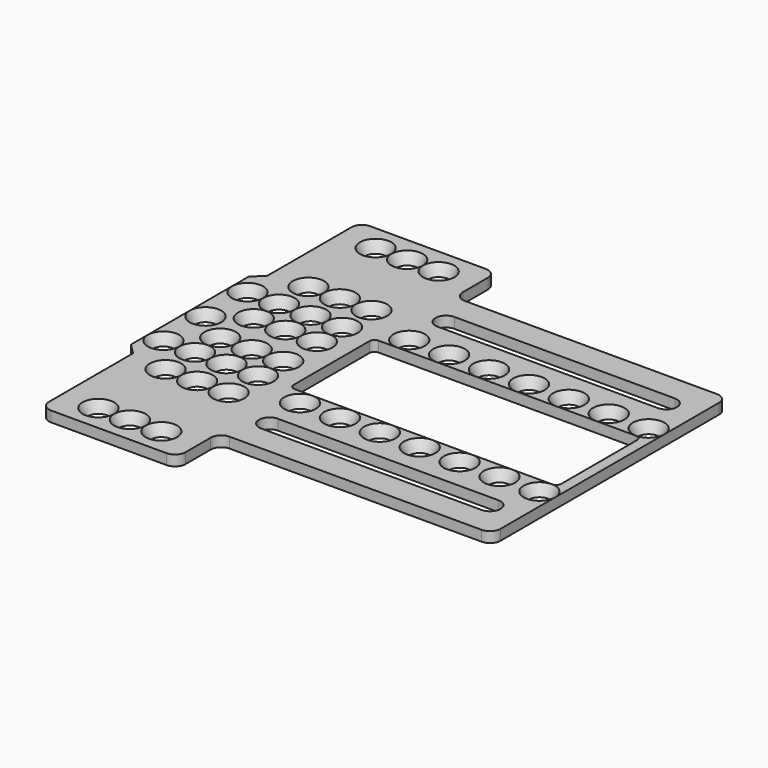
from build123d import *

# Parameters (mm, degrees)
SKETCH055_R             = 1
SKETCH054_R             = 1.5
SKETCH053_R             = 1
SKETCH052_R             = 1.5
SKETCH057_R             = 1
SKETCH056_R             = 1.5
SKETCH013_R             = 1
SKETCH012_R             = 1.5
LOFT005_PLACEMENT_ANGLE = 90
SKETCH003_R             = 1
SKETCH002_R             = 1.5
SKETCH014_R             = 1
SKETCH017_R             = 1.5
SKETCH019_R             = 1
SKETCH018_R             = 1.5
SKETCH016_R             = 1
SKETCH015_R             = 1.5
LOFT006_PLACEMENT_ANGLE = 90
SKETCH046_R             = 1
SKETCH051_R             = 1.5
SKETCH050_R             = 1
SKETCH047_R             = 1.5
SKETCH045_R             = 1
SKETCH044_R             = 1.5
LOFT021_PLACEMENT_ANGLE = 90
SKETCH041_R             = 1
SKETCH040_R             = 1.5
SKETCH037_R             = 1
SKETCH036_R             = 1.5
SKETCH043_R             = 1
SKETCH042_R             = 1.5
LOFT020_PLACEMENT_ANGLE = 90
SKETCH034_R             = 1
SKETCH039_R             = 1.5
SKETCH038_R             = 1
SKETCH035_R             = 1.5
SKETCH033_R             = 1
SKETCH032_R             = 1.5
LOFT015_PLACEMENT_ANGLE = 90
SKETCH029_R             = 1
SKETCH028_R             = 1.5
SKETCH027_R             = 1
SKETCH026_R             = 1.5
SKETCH031_R             = 1
SKETCH030_R             = 1.5
LOFT014_PLACEMENT_ANGLE = 90
SKETCH023_R             = 1
SKETCH022_R             = 1.5
SKETCH025_R             = 1
SKETCH024_R             = 1.5
SKETCH021_R             = 1
SKETCH020_R             = 1.5
LOFT009_PLACEMENT_ANGLE = 90
SKETCH011_R             = 1
SKETCH008_R             = 1.5
SKETCH005_R             = 1
SKETCH004_R             = 1.5
SKETCH007_R             = 1
SKETCH006_R             = 1.5
LOFT002_PLACEMENT_ANGLE = 90
SKETCH010_R             = 1
SKETCH009_R             = 1.5
SKETCH064_R             = 1
SKETCH063_R             = 1.5
LOFT028_PLACEMENT_ANGLE = 90
SKETCH066_R             = 1
SKETCH065_R             = 1.5
LOFT029_PLACEMENT_ANGLE = 90
SKETCH068_R             = 1
SKETCH067_R             = 1.5
LOFT030_PLACEMENT_ANGLE = 90
SKETCH070_R             = 1
SKETCH075_R             = 1.5
LOFT031_PLACEMENT_ANGLE = 90
SKETCH072_R             = 1
SKETCH071_R             = 1.5
LOFT032_PLACEMENT_ANGLE = 90
SKETCH073_R             = 1
SKETCH069_R             = 1.5
LOFT034_PLACEMENT_ANGLE = 90
SKETCH062_R             = 1
SKETCH061_R             = 1.5
LOFT027_PLACEMENT_ANGLE = 90
SKETCH081_R             = 1
SKETCH089_R             = 1.5
LOFT037_PLACEMENT_ANGLE = 90
SKETCH085_R             = 1
SKETCH084_R             = 1.5
LOFT038_PLACEMENT_ANGLE = 90
SKETCH080_R             = 1
SKETCH079_R             = 1.5
LOFT039_PLACEMENT_ANGLE = 90
SKETCH086_R             = 1
SKETCH082_R             = 1.5
LOFT040_PLACEMENT_ANGLE = 90
SKETCH088_R             = 1
SKETCH087_R             = 1.5
LOFT041_PLACEMENT_ANGLE = 90
SKETCH077_R             = 1
SKETCH076_R             = 1.5
LOFT035_PLACEMENT_ANGLE = 90
SKETCH083_R             = 1
SKETCH078_R             = 1.5
LOFT036_PLACEMENT_ANGLE = 90
EXTRUDE_DEPTH           = 1
EXTRUDE002_DEPTH        = 1
EXTRUDE004_DEPTH        = 1
EXTRUDE003_DEPTH        = 1


with BuildPart() as loft065:
    # Sketch055 → Loft025 section 0
    with BuildSketch(Plane.XY):
        with Locations((2, 2)):
            Circle(SKETCH055_R)
    # Sketch054 → Loft025 section 1
    with BuildSketch(Plane.XY.offset(1)):
        with Locations((2, 2)):
            Circle(SKETCH054_R)
    loft()


with BuildPart() as loft065_1:
    # Loft025 placement: moved
    add(loft065.part.moved(Location((-1.5, 22, 0))))


with BuildPart() as loft064:
    # Sketch053 → Loft024 section 0
    with BuildSketch(Plane.XY):
        with Locations((2, 2)):
            Circle(SKETCH053_R)
    # Sketch052 → Loft024 section 1
    with BuildSketch(Plane.XY.offset(1)):
        with Locations((2, 2)):
            Circle(SKETCH052_R)
    loft()


with BuildPart() as loft064_1:
    # Loft024 placement: moved
    add(loft064.part.moved(Location((-1.5, 12, 0))))


with BuildPart() as fusion004:
    # Sketch057 → Loft026 section 0
    with BuildSketch(Plane.XY):
        with Locations((2, 2)):
            Circle(SKETCH057_R)
    # Sketch056 → Loft026 section 1
    with BuildSketch(Plane.XY.offset(1)):
        with Locations((2, 2)):
            Circle(SKETCH056_R)
    loft()


with BuildPart() as fusion004_1:
    # Loft026 placement: moved
    add(fusion004.part.moved(Location((-1.5, 17, 0))))

    # Fusion004: union Loft065, Loft064
    add(loft065_1.part)
    add(loft064_1.part)


with BuildPart() as loft046:
    # Sketch013 → Loft005 section 0
    with BuildSketch(Plane.XY):
        with Locations((2, 2)):
            Circle(SKETCH013_R)
    # Sketch012 → Loft005 section 1
    with BuildSketch(Plane.XY.offset(1)):
        with Locations((2, 2)):
            Circle(SKETCH012_R)
    loft()


with BuildPart() as loft046_1:
    # Loft005 placement: moved
    add(loft046.part.moved(Location((11.502, 33.5, 0))).rotate(Axis((11.502, 33.5, 0), (0, 0, 1)), LOFT005_PLACEMENT_ANGLE))


with BuildPart() as loft001:
    # Sketch003 → Loft section 0
    with BuildSketch(Plane.XY):
        with Locations((2, 2)):
            Circle(SKETCH003_R)
    # Sketch002 → Loft section 1
    with BuildSketch(Plane.XY.offset(1)):
        with Locations((2, 2)):
            Circle(SKETCH002_R)
    loft()


with BuildPart() as loft001_1:
    # Loft placement: moved
    add(loft001.part.moved(Location((1.5, 33.5, 0))))


with BuildPart() as loft048:
    # Sketch014 → Loft007 section 0
    with BuildSketch(Plane.XY):
        with Locations((2, 2)):
            Circle(SKETCH014_R)
    # Sketch017 → Loft007 section 1
    with BuildSketch(Plane.XY.offset(1)):
        with Locations((2, 2)):
            Circle(SKETCH017_R)
    loft()


with BuildPart() as loft048_1:
    # Loft007 placement: moved
    add(loft048.part.moved(Location((1.5, 25.5, 0))))


with BuildPart() as loft049:
    # Sketch019 → Loft008 section 0
    with BuildSketch(Plane.XY):
        with Locations((2, 2)):
            Circle(SKETCH019_R)
    # Sketch018 → Loft008 section 1
    with BuildSketch(Plane.XY.offset(1)):
        with Locations((2, 2)):
            Circle(SKETCH018_R)
    loft()


with BuildPart() as loft049_1:
    # Loft008 placement: moved
    add(loft049.part.moved(Location((4.501, 25.5, 0))))


with BuildPart() as loft047:
    # Sketch016 → Loft006 section 0
    with BuildSketch(Plane.XY):
        with Locations((2, 2)):
            Circle(SKETCH016_R)
    # Sketch015 → Loft006 section 1
    with BuildSketch(Plane.XY.offset(1)):
        with Locations((2, 2)):
            Circle(SKETCH015_R)
    loft()


with BuildPart() as loft047_1:
    # Loft006 placement: moved
    add(loft047.part.moved(Location((11.502, 25.5, 0))).rotate(Axis((11.502, 25.5, 0), (0, 0, 1)), LOFT006_PLACEMENT_ANGLE))


with BuildPart() as loft063:
    # Sketch046 → Loft023 section 0
    with BuildSketch(Plane.XY):
        with Locations((2, 2)):
            Circle(SKETCH046_R)
    # Sketch051 → Loft023 section 1
    with BuildSketch(Plane.XY.offset(1)):
        with Locations((2, 2)):
            Circle(SKETCH051_R)
    loft()


with BuildPart() as loft063_1:
    # Loft023 placement: moved
    add(loft063.part.moved(Location((1.5, 22, 0))))


with BuildPart() as loft062:
    # Sketch050 → Loft022 section 0
    with BuildSketch(Plane.XY):
        with Locations((2, 2)):
            Circle(SKETCH050_R)
    # Sketch047 → Loft022 section 1
    with BuildSketch(Plane.XY.offset(1)):
        with Locations((2, 2)):
            Circle(SKETCH047_R)
    loft()


with BuildPart() as loft062_1:
    # Loft022 placement: moved
    add(loft062.part.moved(Location((4.501, 22, 0))))


with BuildPart() as loft033:
    # Sketch045 → Loft021 section 0
    with BuildSketch(Plane.XY):
        with Locations((2, 2)):
            Circle(SKETCH045_R)
    # Sketch044 → Loft021 section 1
    with BuildSketch(Plane.XY.offset(1)):
        with Locations((2, 2)):
            Circle(SKETCH044_R)
    loft()


with BuildPart() as loft033_1:
    # Loft021 placement: moved
    add(loft033.part.moved(Location((11.503, 22, 0))).rotate(Axis((11.503, 22, 0), (0, 0, 1)), LOFT021_PLACEMENT_ANGLE))


with BuildPart() as loft060:
    # Sketch041 → Loft019 section 0
    with BuildSketch(Plane.XY):
        with Locations((2, 2)):
            Circle(SKETCH041_R)
    # Sketch040 → Loft019 section 1
    with BuildSketch(Plane.XY.offset(1)):
        with Locations((2, 2)):
            Circle(SKETCH040_R)
    loft()


with BuildPart() as loft060_1:
    # Loft019 placement: moved
    add(loft060.part.moved(Location((1.5, 18.999, 0))))


with BuildPart() as loft059:
    # Sketch037 → Loft018 section 0
    with BuildSketch(Plane.XY):
        with Locations((2, 2)):
            Circle(SKETCH037_R)
    # Sketch036 → Loft018 section 1
    with BuildSketch(Plane.XY.offset(1)):
        with Locations((2, 2)):
            Circle(SKETCH036_R)
    loft()


with BuildPart() as loft059_1:
    # Loft018 placement: moved
    add(loft059.part.moved(Location((4.501, 18.999, 0))))


with BuildPart() as loft061:
    # Sketch043 → Loft020 section 0
    with BuildSketch(Plane.XY):
        with Locations((2, 2)):
            Circle(SKETCH043_R)
    # Sketch042 → Loft020 section 1
    with BuildSketch(Plane.XY.offset(1)):
        with Locations((2, 2)):
            Circle(SKETCH042_R)
    loft()


with BuildPart() as loft061_1:
    # Loft020 placement: moved
    add(loft061.part.moved(Location((11.502, 18.999, 0))).rotate(Axis((11.502, 18.999, 0), (0, 0, 1)), LOFT020_PLACEMENT_ANGLE))


with BuildPart() as loft058:
    # Sketch034 → Loft017 section 0
    with BuildSketch(Plane.XY):
        with Locations((2, 2)):
            Circle(SKETCH034_R)
    # Sketch039 → Loft017 section 1
    with BuildSketch(Plane.XY.offset(1)):
        with Locations((2, 2)):
            Circle(SKETCH039_R)
    loft()


with BuildPart() as loft058_1:
    # Loft017 placement: moved
    add(loft058.part.moved(Location((1.5, 15.001, 0))))


with BuildPart() as loft057:
    # Sketch038 → Loft016 section 0
    with BuildSketch(Plane.XY):
        with Locations((2, 2)):
            Circle(SKETCH038_R)
    # Sketch035 → Loft016 section 1
    with BuildSketch(Plane.XY.offset(1)):
        with Locations((2, 2)):
            Circle(SKETCH035_R)
    loft()


with BuildPart() as loft057_1:
    # Loft016 placement: moved
    add(loft057.part.moved(Location((4.501, 15.001, 0))))


with BuildPart() as loft056:
    # Sketch033 → Loft015 section 0
    with BuildSketch(Plane.XY):
        with Locations((2, 2)):
            Circle(SKETCH033_R)
    # Sketch032 → Loft015 section 1
    with BuildSketch(Plane.XY.offset(1)):
        with Locations((2, 2)):
            Circle(SKETCH032_R)
    loft()


with BuildPart() as loft056_1:
    # Loft015 placement: moved
    add(loft056.part.moved(Location((11.502, 15.001, 0))).rotate(Axis((11.502, 15.001, 0), (0, 0, 1)), LOFT015_PLACEMENT_ANGLE))


with BuildPart() as loft054:
    # Sketch029 → Loft013 section 0
    with BuildSketch(Plane.XY):
        with Locations((2, 2)):
            Circle(SKETCH029_R)
    # Sketch028 → Loft013 section 1
    with BuildSketch(Plane.XY.offset(1)):
        with Locations((2, 2)):
            Circle(SKETCH028_R)
    loft()


with BuildPart() as loft054_1:
    # Loft013 placement: moved
    add(loft054.part.moved(Location((1.5, 12, 0))))


with BuildPart() as loft053:
    # Sketch027 → Loft012 section 0
    with BuildSketch(Plane.XY):
        with Locations((2, 2)):
            Circle(SKETCH027_R)
    # Sketch026 → Loft012 section 1
    with BuildSketch(Plane.XY.offset(1)):
        with Locations((2, 2)):
            Circle(SKETCH026_R)
    loft()


with BuildPart() as loft053_1:
    # Loft012 placement: moved
    add(loft053.part.moved(Location((4.501, 12, 0))))


with BuildPart() as loft055:
    # Sketch031 → Loft014 section 0
    with BuildSketch(Plane.XY):
        with Locations((2, 2)):
            Circle(SKETCH031_R)
    # Sketch030 → Loft014 section 1
    with BuildSketch(Plane.XY.offset(1)):
        with Locations((2, 2)):
            Circle(SKETCH030_R)
    loft()


with BuildPart() as loft055_1:
    # Loft014 placement: moved
    add(loft055.part.moved(Location((11.502, 12, 0))).rotate(Axis((11.502, 12, 0), (0, 0, 1)), LOFT014_PLACEMENT_ANGLE))


with BuildPart() as loft051:
    # Sketch023 → Loft010 section 0
    with BuildSketch(Plane.XY):
        with Locations((2, 2)):
            Circle(SKETCH023_R)
    # Sketch022 → Loft010 section 1
    with BuildSketch(Plane.XY.offset(1)):
        with Locations((2, 2)):
            Circle(SKETCH022_R)
    loft()


with BuildPart() as loft051_1:
    # Loft010 placement: moved
    add(loft051.part.moved(Location((1.5, 8.5, 0))))


with BuildPart() as loft052:
    # Sketch025 → Loft011 section 0
    with BuildSketch(Plane.XY):
        with Locations((2, 2)):
            Circle(SKETCH025_R)
    # Sketch024 → Loft011 section 1
    with BuildSketch(Plane.XY.offset(1)):
        with Locations((2, 2)):
            Circle(SKETCH024_R)
    loft()


with BuildPart() as loft052_1:
    # Loft011 placement: moved
    add(loft052.part.moved(Location((4.501, 8.5, 0))))


with BuildPart() as loft050:
    # Sketch021 → Loft009 section 0
    with BuildSketch(Plane.XY):
        with Locations((2, 2)):
            Circle(SKETCH021_R)
    # Sketch020 → Loft009 section 1
    with BuildSketch(Plane.XY.offset(1)):
        with Locations((2, 2)):
            Circle(SKETCH020_R)
    loft()


with BuildPart() as loft050_1:
    # Loft009 placement: moved
    add(loft050.part.moved(Location((11.502, 8.5, 0))).rotate(Axis((11.502, 8.5, 0), (0, 0, 1)), LOFT009_PLACEMENT_ANGLE))


with BuildPart() as loft044:
    # Sketch011 → Loft003 section 0
    with BuildSketch(Plane.XY):
        with Locations((2, 2)):
            Circle(SKETCH011_R)
    # Sketch008 → Loft003 section 1
    with BuildSketch(Plane.XY.offset(1)):
        with Locations((2, 2)):
            Circle(SKETCH008_R)
    loft()


with BuildPart() as loft044_1:
    # Loft003 placement: moved
    add(loft044.part.moved(Location((1.5, 0.5, 0))))


with BuildPart() as loft042:
    # Sketch005 → Loft001 section 0
    with BuildSketch(Plane.XY):
        with Locations((2, 2)):
            Circle(SKETCH005_R)
    # Sketch004 → Loft001 section 1
    with BuildSketch(Plane.XY.offset(1)):
        with Locations((2, 2)):
            Circle(SKETCH004_R)
    loft()


with BuildPart() as loft042_1:
    # Loft001 placement: moved
    add(loft042.part.moved(Location((4.501, 0.5, 0))))


with BuildPart() as loft043:
    # Sketch007 → Loft002 section 0
    with BuildSketch(Plane.XY):
        with Locations((2, 2)):
            Circle(SKETCH007_R)
    # Sketch006 → Loft002 section 1
    with BuildSketch(Plane.XY.offset(1)):
        with Locations((2, 2)):
            Circle(SKETCH006_R)
    loft()


with BuildPart() as loft043_1:
    # Loft002 placement: moved
    add(loft043.part.moved(Location((11.502, 0.5, 0))).rotate(Axis((11.502, 0.5, 0), (0, 0, 1)), LOFT002_PLACEMENT_ANGLE))


with BuildPart() as fusion005:
    # Sketch010 → Loft004 section 0
    with BuildSketch(Plane.XY):
        with Locations((2, 2)):
            Circle(SKETCH010_R)
    # Sketch009 → Loft004 section 1
    with BuildSketch(Plane.XY.offset(1)):
        with Locations((2, 2)):
            Circle(SKETCH009_R)
    loft()


with BuildPart() as fusion005_1:
    # Loft004 placement: moved
    add(fusion005.part.moved(Location((4.501, 33.5, 0))))

    # Fusion: union Loft046, Loft001, Loft048, Loft049, Loft047, Loft063, Loft062, Loft033, Loft060, Loft059, Loft061, Loft058, Loft057, Loft056, Loft054, Loft053, Loft055, Loft051, Loft052, Loft050, Loft044, Loft042, Loft043
    add(loft046_1.part)
    add(loft001_1.part)
    add(loft048_1.part)
    add(loft049_1.part)
    add(loft047_1.part)
    add(loft063_1.part)
    add(loft062_1.part)
    add(loft033_1.part)
    add(loft060_1.part)
    add(loft059_1.part)
    add(loft061_1.part)
    add(loft058_1.part)
    add(loft057_1.part)
    add(loft056_1.part)
    add(loft054_1.part)
    add(loft053_1.part)
    add(loft055_1.part)
    add(loft051_1.part)
    add(loft052_1.part)
    add(loft050_1.part)
    add(loft044_1.part)
    add(loft042_1.part)
    add(loft043_1.part)


with BuildPart() as fusion005_2:
    # Fusion placement: moved
    add(fusion005_1.part.moved(Location((0.001, 0, 0))))

    # Fusion005: union Fusion004
    add(fusion004_1.part)


with BuildPart() as loft068:
    # Sketch064 → Loft028 section 0
    with BuildSketch(Plane.XY):
        with Locations((2, 2)):
            Circle(SKETCH064_R)
    # Sketch063 → Loft028 section 1
    with BuildSketch(Plane.XY.offset(1)):
        with Locations((2, 2)):
            Circle(SKETCH063_R)
    loft()


with BuildPart() as loft068_1:
    # Loft028 placement: moved
    add(loft068.part.moved(Location((35.7, 23.5, 0))).rotate(Axis((35.7, 23.5, 0), (0, 0, 1)), LOFT028_PLACEMENT_ANGLE))


with BuildPart() as loft069:
    # Sketch066 → Loft029 section 0
    with BuildSketch(Plane.XY):
        with Locations((2, 2)):
            Circle(SKETCH066_R)
    # Sketch065 → Loft029 section 1
    with BuildSketch(Plane.XY.offset(1)):
        with Locations((2, 2)):
            Circle(SKETCH065_R)
    loft()


with BuildPart() as loft069_1:
    # Loft029 placement: moved
    add(loft069.part.moved(Location((31.9, 23.5, 0))).rotate(Axis((31.9, 23.5, 0), (0, 0, 1)), LOFT029_PLACEMENT_ANGLE))


with BuildPart() as loft070:
    # Sketch068 → Loft030 section 0
    with BuildSketch(Plane.XY):
        with Locations((2, 2)):
            Circle(SKETCH068_R)
    # Sketch067 → Loft030 section 1
    with BuildSketch(Plane.XY.offset(1)):
        with Locations((2, 2)):
            Circle(SKETCH067_R)
    loft()


with BuildPart() as loft070_1:
    # Loft030 placement: moved
    add(loft070.part.moved(Location((28.1, 23.5, 0))).rotate(Axis((28.1, 23.5, 0), (0, 0, 1)), LOFT030_PLACEMENT_ANGLE))


with BuildPart() as loft071:
    # Sketch070 → Loft031 section 0
    with BuildSketch(Plane.XY):
        with Locations((2, 2)):
            Circle(SKETCH070_R)
    # Sketch075 → Loft031 section 1
    with BuildSketch(Plane.XY.offset(1)):
        with Locations((2, 2)):
            Circle(SKETCH075_R)
    loft()


with BuildPart() as loft071_1:
    # Loft031 placement: moved
    add(loft071.part.moved(Location((24.3, 23.5, 0))).rotate(Axis((24.3, 23.5, 0), (0, 0, 1)), LOFT031_PLACEMENT_ANGLE))


with BuildPart() as loft072:
    # Sketch072 → Loft032 section 0
    with BuildSketch(Plane.XY):
        with Locations((2, 2)):
            Circle(SKETCH072_R)
    # Sketch071 → Loft032 section 1
    with BuildSketch(Plane.XY.offset(1)):
        with Locations((2, 2)):
            Circle(SKETCH071_R)
    loft()


with BuildPart() as loft072_1:
    # Loft032 placement: moved
    add(loft072.part.moved(Location((16.7, 23.5, 0))).rotate(Axis((16.7, 23.5, 0), (0, 0, 1)), LOFT032_PLACEMENT_ANGLE))


with BuildPart() as loft073:
    # Sketch073 → Loft034 section 0
    with BuildSketch(Plane.XY):
        with Locations((2, 2)):
            Circle(SKETCH073_R)
    # Sketch069 → Loft034 section 1
    with BuildSketch(Plane.XY.offset(1)):
        with Locations((2, 2)):
            Circle(SKETCH069_R)
    loft()


with BuildPart() as loft073_1:
    # Loft034 placement: moved
    add(loft073.part.moved(Location((20.5, 23.5, 0))).rotate(Axis((20.5, 23.5, 0), (0, 0, 1)), LOFT034_PLACEMENT_ANGLE))


with BuildPart() as fusion001:
    # Sketch062 → Loft027 section 0
    with BuildSketch(Plane.XY):
        with Locations((2, 2)):
            Circle(SKETCH062_R)
    # Sketch061 → Loft027 section 1
    with BuildSketch(Plane.XY.offset(1)):
        with Locations((2, 2)):
            Circle(SKETCH061_R)
    loft()


with BuildPart() as fusion001_1:
    # Loft027 placement: moved
    add(fusion001.part.moved(Location((39.5, 23.5, 0))).rotate(Axis((39.5, 23.5, 0), (0, 0, 1)), LOFT027_PLACEMENT_ANGLE))

    # Fusion001: union Loft068, Loft069, Loft070, Loft071, Loft072, Loft073
    add(loft068_1.part)
    add(loft069_1.part)
    add(loft070_1.part)
    add(loft071_1.part)
    add(loft072_1.part)
    add(loft073_1.part)


with BuildPart() as loft076:
    # Sketch081 → Loft037 section 0
    with BuildSketch(Plane.XY):
        with Locations((2, 2)):
            Circle(SKETCH081_R)
    # Sketch089 → Loft037 section 1
    with BuildSketch(Plane.XY.offset(1)):
        with Locations((2, 2)):
            Circle(SKETCH089_R)
    loft()


with BuildPart() as loft076_1:
    # Loft037 placement: moved
    add(loft076.part.moved(Location((31.9, 10.5, 0))).rotate(Axis((31.9, 10.5, 0), (0, 0, 1)), LOFT037_PLACEMENT_ANGLE))


with BuildPart() as loft077:
    # Sketch085 → Loft038 section 0
    with BuildSketch(Plane.XY):
        with Locations((2, 2)):
            Circle(SKETCH085_R)
    # Sketch084 → Loft038 section 1
    with BuildSketch(Plane.XY.offset(1)):
        with Locations((2, 2)):
            Circle(SKETCH084_R)
    loft()


with BuildPart() as loft077_1:
    # Loft038 placement: moved
    add(loft077.part.moved(Location((35.7, 10.5, 0))).rotate(Axis((35.7, 10.5, 0), (0, 0, 1)), LOFT038_PLACEMENT_ANGLE))


with BuildPart() as loft078:
    # Sketch080 → Loft039 section 0
    with BuildSketch(Plane.XY):
        with Locations((2, 2)):
            Circle(SKETCH080_R)
    # Sketch079 → Loft039 section 1
    with BuildSketch(Plane.XY.offset(1)):
        with Locations((2, 2)):
            Circle(SKETCH079_R)
    loft()


with BuildPart() as loft078_1:
    # Loft039 placement: moved
    add(loft078.part.moved(Location((24.3, 10.5, 0))).rotate(Axis((24.3, 10.5, 0), (0, 0, 1)), LOFT039_PLACEMENT_ANGLE))


with BuildPart() as loft079:
    # Sketch086 → Loft040 section 0
    with BuildSketch(Plane.XY):
        with Locations((2, 2)):
            Circle(SKETCH086_R)
    # Sketch082 → Loft040 section 1
    with BuildSketch(Plane.XY.offset(1)):
        with Locations((2, 2)):
            Circle(SKETCH082_R)
    loft()


with BuildPart() as loft079_1:
    # Loft040 placement: moved
    add(loft079.part.moved(Location((28.1, 10.5, 0))).rotate(Axis((28.1, 10.5, 0), (0, 0, 1)), LOFT040_PLACEMENT_ANGLE))


with BuildPart() as loft080:
    # Sketch088 → Loft041 section 0
    with BuildSketch(Plane.XY):
        with Locations((2, 2)):
            Circle(SKETCH088_R)
    # Sketch087 → Loft041 section 1
    with BuildSketch(Plane.XY.offset(1)):
        with Locations((2, 2)):
            Circle(SKETCH087_R)
    loft()


with BuildPart() as loft080_1:
    # Loft041 placement: moved
    add(loft080.part.moved(Location((39.5, 10.5, 0))).rotate(Axis((39.5, 10.5, 0), (0, 0, 1)), LOFT041_PLACEMENT_ANGLE))


with BuildPart() as loft074:
    # Sketch077 → Loft035 section 0
    with BuildSketch(Plane.XY):
        with Locations((2, 2)):
            Circle(SKETCH077_R)
    # Sketch076 → Loft035 section 1
    with BuildSketch(Plane.XY.offset(1)):
        with Locations((2, 2)):
            Circle(SKETCH076_R)
    loft()


with BuildPart() as loft074_1:
    # Loft035 placement: moved
    add(loft074.part.moved(Location((20.5, 10.5, 0))).rotate(Axis((20.5, 10.5, 0), (0, 0, 1)), LOFT035_PLACEMENT_ANGLE))


with BuildPart() as fusion006:
    # Sketch083 → Loft036 section 0
    with BuildSketch(Plane.XY):
        with Locations((2, 2)):
            Circle(SKETCH083_R)
    # Sketch078 → Loft036 section 1
    with BuildSketch(Plane.XY.offset(1)):
        with Locations((2, 2)):
            Circle(SKETCH078_R)
    loft()


with BuildPart() as fusion006_1:
    # Loft036 placement: moved
    add(fusion006.part.moved(Location((16.7, 10.5, 0))).rotate(Axis((16.7, 10.5, 0), (0, 0, 1)), LOFT036_PLACEMENT_ANGLE))

    # Fusion002: union Loft076, Loft077, Loft078, Loft079, Loft080, Loft074
    add(loft076_1.part)
    add(loft077_1.part)
    add(loft078_1.part)
    add(loft079_1.part)
    add(loft080_1.part)
    add(loft074_1.part)

    # Fusion006: union Fusion005, Fusion001
    add(fusion005_2.part)
    add(fusion001_1.part)


with BuildPart() as extrude_body:
    # Sketch058 → Extrude (new body)
    with BuildSketch(Plane.XY):
        with BuildLine():
            ThreePointArc((36, 7), (37, 8), (36, 9))
            Line((15, 9), (36, 9))
            ThreePointArc((15, 9), (14, 8), (15, 7))
            Line((15, 7), (36, 7))
        make_face()
    extrude(amount=EXTRUDE_DEPTH)


with BuildPart() as extrude_body_1:
    # Extrude placement: moved
    add(extrude_body.part.moved(Location((0, 0.5, 0))))


with BuildPart() as extrude002:
    # Sketch059 → Extrude002 (new body)
    with BuildSketch(Plane(origin=(0, 22, 0), x_dir=(1, 0, 0), z_dir=(0, 0, 1))):
        with BuildLine():
            ThreePointArc((36, 7), (37, 8), (36, 9))
            Line((15, 9), (36, 9))
            ThreePointArc((15, 9), (14, 8), (15, 7))
            Line((15, 7), (36, 7))
        make_face()
    extrude(amount=EXTRUDE002_DEPTH)


with BuildPart() as extrude002_1:
    # Extrude002 placement: moved
    add(extrude002.part.moved(Location((0, -0.5, 0))))


with BuildPart() as fusion003:
    # Sketch → Extrude004 (new body)
    with BuildSketch(Plane.XY):
        with BuildLine():
            Line((13, 24), (37.5, 24))
            ThreePointArc((38, 23.5), (37.853553, 23.853553), (37.5, 24))
            Line((38, 14.5), (38, 23.5))
            ThreePointArc((37.5, 14), (37.853553, 14.146447), (38, 14.5))
            Line((13, 14), (37.5, 14))
            ThreePointArc((12.5, 14.5), (12.646447, 14.146447), (13, 14))
            Line((12.5, 23.5), (12.5, 14.5))
            ThreePointArc((13, 24), (12.646447, 23.853553), (12.5, 23.5))
        make_face()
    extrude(amount=EXTRUDE004_DEPTH)

    # Fusion003: union Extrude body, Extrude002
    add(extrude_body_1.part)
    add(extrude002_1.part)


with BuildPart() as obj1:
    # Sketch090 → Extrude003 (new body)
    with BuildSketch(Plane.XY):
        with BuildLine():
            ThreePointArc((0, 1), (0.292893, 0.292893), (1, 0))
            Line((1, 0), (12, 0))
            ThreePointArc((12, 0), (12.707107, 0.292893), (13, 1))
            Line((13, 1), (13, 4))
            ThreePointArc((14, 5), (13.292893, 4.707107), (13, 4))
            Line((14, 5), (38, 5))
            ThreePointArc((38, 5), (38.707107, 5.292893), (39, 6))
            Line((39, 6), (39, 32))
            ThreePointArc((39, 32), (38.707107, 32.707107), (38, 33))
            Line((38, 33), (14, 33))
            ThreePointArc((13, 34), (13.292893, 33.292893), (14, 33))
            Line((13, 34), (13, 37))
            ThreePointArc((13, 37), (12.707107, 37.707107), (12, 38))
            Line((12, 38), (1.000001, 38))
            ThreePointArc((1.000001, 38), (0.292893, 37.707107), (0, 37))
            Line((0, 37), (0, 27))
            Line((0, 27), (-1, 26))
            Line((-1, 26), (-1, 12))
            Line((-1, 12), (0, 11))
            Line((0, 11), (0, 1))
        make_face()
    extrude(amount=EXTRUDE003_DEPTH)

    # Cut: cut Fusion003
    add(fusion003.part, mode=Mode.SUBTRACT)

    # Cut001: cut Fusion006
    add(fusion006_1.part, mode=Mode.SUBTRACT)


solid = obj1.part
